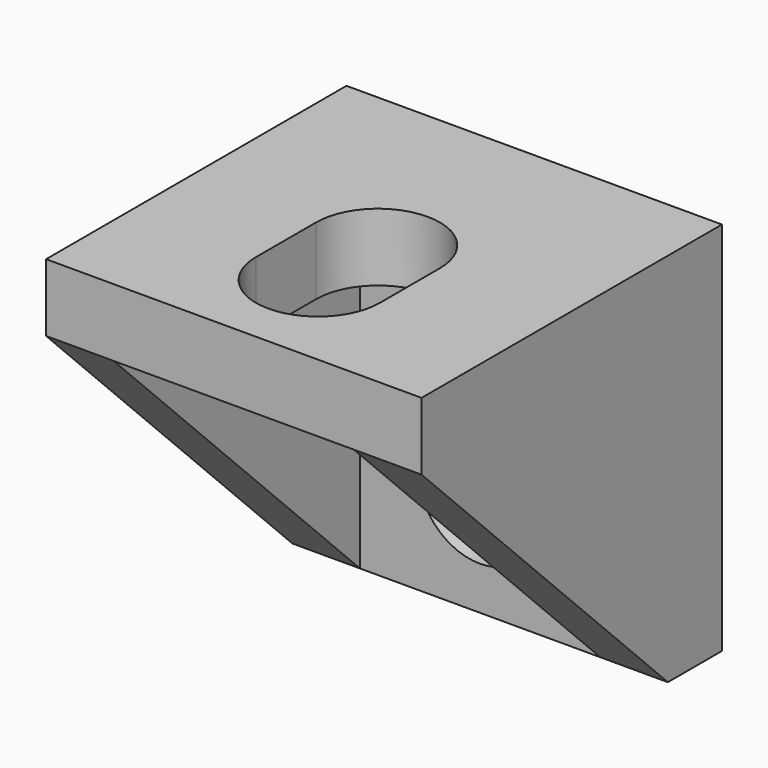
from build123d import *

# Parameters (mm, degrees)
F0_W      = 20
F0_H      = 20
F1_DEPTH  = 3.6
F2_W      = 6.6
F2_H      = 4
F3_DEPTH  = 25
F5_ANGLE  = 90
F8_DEPTH  = 3.6
F10_DEPTH = 3.6


with BuildPart() as f1:
    # F0 (on Top) → F1 (new body)
    with BuildSketch(Plane.XY):
        with Locations((0, 14)):
            Rectangle(F0_W, F0_H)
    extrude(amount=F1_DEPTH)

    # F2 (on face) → F3 (cut)
    with BuildSketch(Plane.XY.offset(3.6)):
        with BuildLine():
            ThreePointArc((3.3, 13.6), (0, 16.9), (-3.3, 13.6))
            Line((-3.3, 13.6), (3.3, 13.6))
        make_face()
        with Locations((0, 11.6)):
            Rectangle(F2_W, F2_H)
        with BuildLine():
            Line((3.3, 9.6), (-3.3, 9.6))
            ThreePointArc((-3.3, 9.6), (0, 6.3), (3.3, 9.6))
        make_face()
    extrude(amount=-F3_DEPTH, mode=Mode.SUBTRACT)


with BuildPart() as f4_1:
    # F4: instance of F1
    add(f1.part.mirror(Plane(origin=(0, 24, 1.8), x_dir=(-1, 0, 0), z_dir=(0, 1, 0))))


with BuildPart() as f4_1_1:
    # F5: moved
    add(f4_1.part.rotate(Axis((0, 24, 3.6), (-1, 0, 0)), F5_ANGLE))


with BuildPart() as f1_1:
    add(f1.part)

    # F6: union F4_1
    add(f4_1_1.part)

    # F7 (on face) → F8 (join)
    with BuildSketch(Plane.YZ.offset(10)):
        Polygon((20.4, 0), (4, 0), (20.4, -16.4), align=None)
    extrude(amount=-F8_DEPTH)

    # F9 (on face) → F10 (join)
    with BuildSketch(Plane(origin=(-10, 0, 0), x_dir=(0, -1, 0), z_dir=(-1, 0, 0))):
        Polygon((-20.4, -16.4), (-4, 0), (-20.4, 0), align=None)
    extrude(amount=-F10_DEPTH)


solid = f1_1.part
